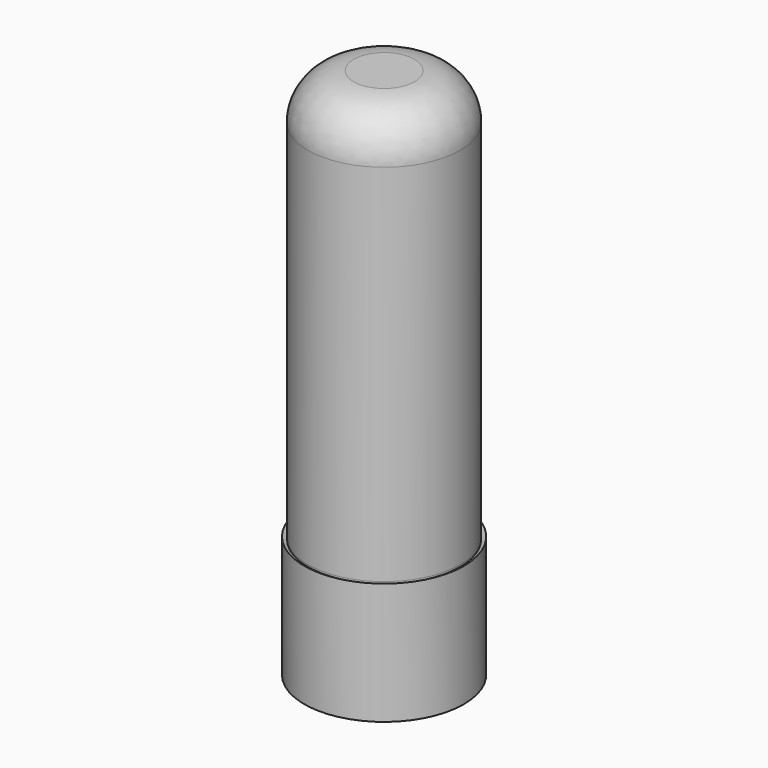
from build123d import *


with BuildPart() as f1:
    # F0 (on Front) → F1 (revolve)
    with BuildSketch(Plane.XZ):
        with BuildLine():
            Line((0, 1200), (0, 0))
            Line((0, 0), (80, 0))
            ThreePointArc((80, 0), (164.852814, 35.147186), (200, 120))
            Line((200, 120), (200, 1080))
            ThreePointArc((200, 1080), (164.852814, 1164.852814), (80, 1200))
            Line((80, 1200), (0, 1200))
        make_face()
    revolve(axis=Axis((0, 0, 600), (0, 0, 1)))


with BuildPart() as f3:
    # F2 (on Front) → F3 (revolve)
    with BuildSketch(Plane.XZ):
        Polygon((210, 120.349817), (0, 0), (0, -200), (210, -200), align=None)
    revolve(axis=Axis((0, 0, -100), (0, 0, -1)))


solid = Compound([f1.part, f3.part])
